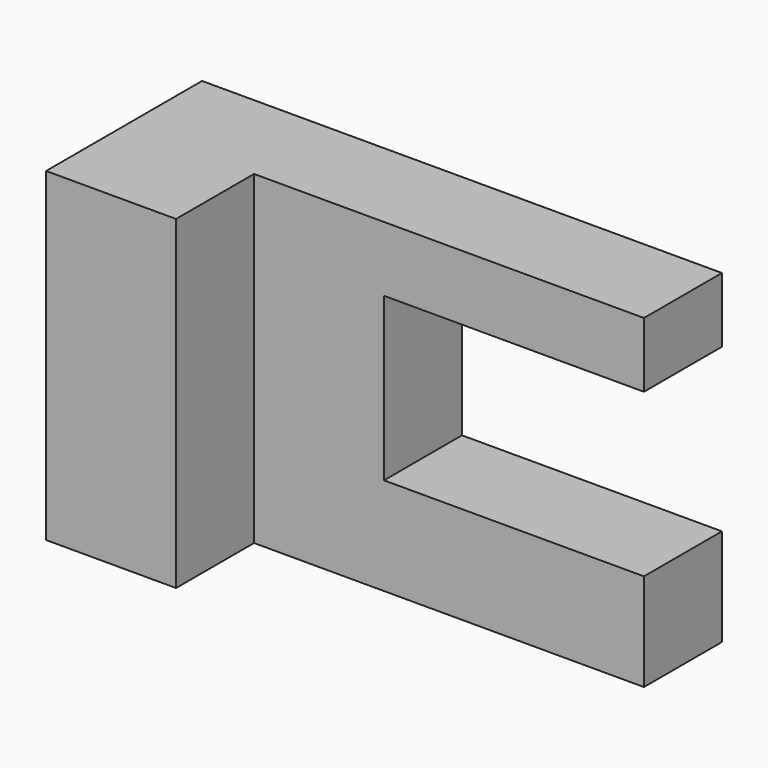
from build123d import *

# Parameters (mm, degrees)
F0_W     = 101.6
F0_H     = 63.5
F1_DEPTH = 19.05
F2_W     = 25.4
F2_H     = 63.5
F3_DEPTH = 19.05
F4_W     = 50.8
F4_H     = 31.75
F5_DEPTH = 19.051


with BuildPart() as f1:
    # F0 (on Front) → F1 (new body)
    with BuildSketch(Plane.XZ):
        Rectangle(F0_W, F0_H)
    extrude(amount=F1_DEPTH)

    # F2 (on face) → F3 (join)
    with BuildSketch(Plane.XZ.offset(19.05)):
        with Locations((-38.1, 0)):
            Rectangle(F2_W, F2_H)
    extrude(amount=F3_DEPTH)

    # F4 (on face) → F5 (cut, through all)
    with BuildSketch(Plane.XZ.offset(19.05)):
        with Locations((25.4, 3.175)):
            Rectangle(F4_W, F4_H)
    extrude(amount=-F5_DEPTH, mode=Mode.SUBTRACT)


solid = f1.part
